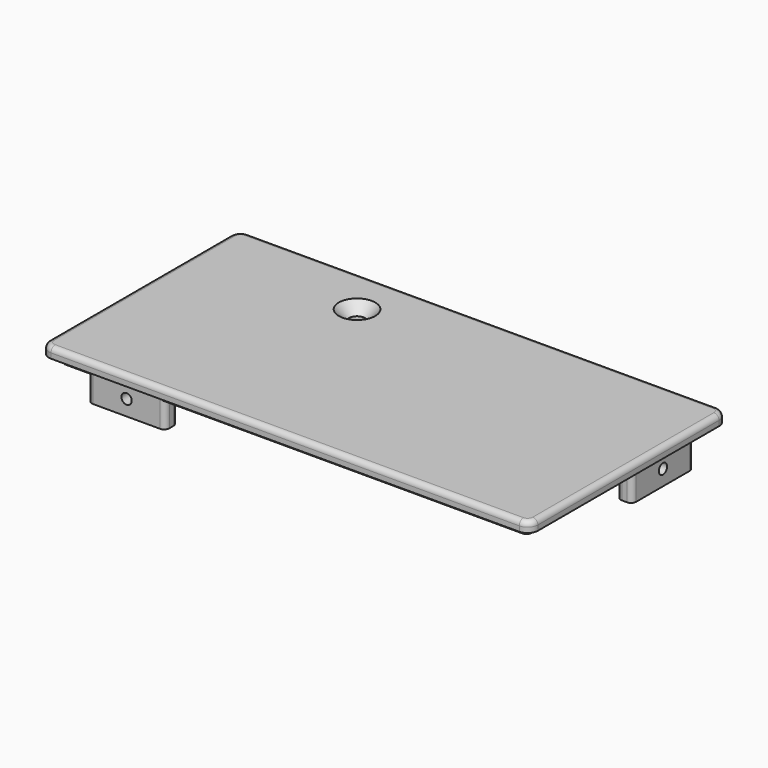
from build123d import *

# Parameters (mm, degrees)
SKETCH027_W     = 95
SKETCH027_H     = 48
PAD011_DEPTH    = 2
SKETCH028_R     = 2
PAD012_DEPTH    = 1.5
SKETCH032_W     = 22.9
SKETCH032_H     = 4.9
PAD013_DEPTH    = 1.2
SKETCH033_W     = 22.9
SKETCH033_H     = 4.3
PAD014_DEPTH    = 0.4
SKETCH034_W     = 15
SKETCH034_H     = 3
SKETCH034_W_2   = 3
SKETCH034_H_2   = 15
PAD015_DEPTH    = 5
SKETCH035_R     = 1
POCKET015_DEPTH = 5
SKETCH036_R     = 1
POCKET016_DEPTH = 5
SKETCH037_R     = 1.55
POCKET017_DEPTH = 7
FILLET_R        = 2
FILLET001_R     = 1
CHAMFER_SIZE    = 2
FILLET002_R     = 1
SKETCH047_W     = 20
SKETCH047_H     = 1.15
SKETCH047_H_2   = 1.4
PAD020_DEPTH    = 2
SKETCH048_W     = 20
SKETCH048_H     = 2.6
SKETCH048_H_2   = 0.6
PAD021_DEPTH    = 2
FILLET012_R     = 0.5
CHAMFER005_SIZE = 0.5
CHAMFER006_SIZE = 0.5
SKETCH051_W     = 6
SKETCH051_H     = 1.15
POCKET022_DEPTH = 2
FILLET015_R     = 0.5


with BuildPart() as part:
    # Sketch027 → Pad011 (new body)
    with BuildSketch(Plane.XY):
        with Locations((47.5, -34)):
            Rectangle(SKETCH027_W, SKETCH027_H)
    extrude(amount=PAD011_DEPTH)

    # Sketch028 (on Face5 of Pad011) → Pad012 (join)
    with BuildSketch(Plane(origin=(0, 0, 0), x_dir=(1, 0, 0), z_dir=(0, 0, -1))):
        with Locations((30.5, 19.3)):
            Circle(SKETCH028_R)
        Polygon((2.1, 30.9), (5.1, 30.9), (5.1, 52.9), (92.9, 52.9), (92.9, 55.9), (2.1, 55.9), align=None)
        Polygon((89.9, 32.1), (92.9, 32.1), (92.9, 12.1), (77.9, 12.1), (77.9, 15.1), (89.9, 15.1), align=None)
    extrude(amount=PAD012_DEPTH)

    # Sketch032 (on Face4 of Pad012) → Pad013 (join)
    with BuildSketch(Plane(origin=(0, 0, 0), x_dir=(1, 0, 0), z_dir=(0, 0, -1))):
        with Locations((13.55, 14.55)):
            Rectangle(SKETCH032_W, SKETCH032_H)
    extrude(amount=PAD013_DEPTH)

    # Sketch033 (on Face4 of Pad013) → Pad014 (join)
    with BuildSketch(Plane(origin=(0, 0, 0), x_dir=(1, 0, 0), z_dir=(0, 0, -1))):
        with Locations((13.55, 19.15)):
            Rectangle(SKETCH033_W, SKETCH033_H)
    extrude(amount=PAD014_DEPTH)

    # Sketch034 (on Face26 of Pad014) → Pad015 (join)
    with BuildSketch(Plane(origin=(0, 0, -1.5), x_dir=(1, 0, 0), z_dir=(0, 0, -1))):
        with Locations((15, 54.4)):
            Rectangle(SKETCH034_W, SKETCH034_H)
        with Locations((91.4, 23)):
            Rectangle(SKETCH034_W_2, SKETCH034_H_2)
    extrude(amount=PAD015_DEPTH)

    # Sketch035 (on Face33 of Pad015) → Pocket015 (cut)
    with BuildSketch(Plane.YZ.offset(92.9)):
        with Locations((-23, -3.5)):
            Circle(SKETCH035_R)
    extrude(amount=-POCKET015_DEPTH, mode=Mode.SUBTRACT)

    # Sketch036 (on Face28 of Pocket015) → Pocket016 (cut)
    with BuildSketch(Plane.XZ.offset(55.9)):
        with Locations((15, -3.5)):
            Circle(SKETCH036_R)
    extrude(amount=-POCKET016_DEPTH, mode=Mode.SUBTRACT)

    # Sketch037 (on Face34 of Pocket016) → Pocket017 (cut)
    with BuildSketch(Plane(origin=(0, 0, -1.5), x_dir=(1, 0, 0), z_dir=(0, 0, -1))):
        with Locations((30.5, 19.3)):
            Circle(SKETCH037_R)
    extrude(amount=-POCKET017_DEPTH, mode=Mode.SUBTRACT)

    # Fillet
    fillet_edges = [part.edges().sort_by_distance(p)[0] for p in [
        (0, -58, 1),
        (0, -10, 1),
        (95, -58, 1),
        (95, -10, 1),
    ]]
    fillet(fillet_edges, radius=FILLET_R)

    # Fillet001
    fillet001_edges = [part.edges().sort_by_distance(p)[0] for p in [
        (47.5, -58, 2),
    ]]
    fillet(fillet001_edges, radius=FILLET001_R)

    # Chamfer
    chamfer_edges = [part.edges().sort_by_distance(p)[0] for p in [
        (28.95, -19.3, 2),
    ]]
    chamfer(chamfer_edges, length=CHAMFER_SIZE)

    # Fillet002
    fillet002_edges = [part.edges().sort_by_distance(p)[0] for p in [
        (2.1, -30.9, -0.75),
        (5.1, -30.9, -0.75),
        (2.1, -21.3, -0.2),
        (2.1, -17, -0.8),
        (2.1, -12.1, -0.6),
        (25, -12.1, -0.6),
        (25, -17, -0.8),
        (25, -21.3, -0.2),
        (92.9, -55.9, -0.75),
        (92.9, -52.9, -0.75),
        (92.9, -32.1, -0.75),
        (92.9, -12.1, -0.75),
        (77.9, -12.1, -0.75),
        (92.9, -15.5, -4),
        (89.9, -15.5, -4),
        (92.9, -30.5, -4),
        (89.9, -32.1, -0.75),
        (89.9, -30.5, -4),
        (77.9, -15.1, -0.75),
        (22.5, -55.9, -4),
        (7.5, -55.9, -4),
        (2.1, -55.9, -0.75),
        (7.5, -52.9, -4),
        (22.5, -52.9, -4),
    ]]
    fillet(fillet002_edges, radius=FILLET002_R)

    # Sketch047 (on Face61 of Fillet002) → Pad020 (join)
    with BuildSketch(Plane(origin=(0, 0, -0.4), x_dir=(1, 0, 0), z_dir=(0, 0, -1))):
        with Locations((13.1, 20.725)):
            Rectangle(SKETCH047_W, SKETCH047_H)
        with Locations((13.1, 17.7)):
            Rectangle(SKETCH047_W, SKETCH047_H_2)
    extrude(amount=PAD020_DEPTH)

    # Sketch048 (on Face60 of Pad020) → Pad021 (join)
    with BuildSketch(Plane(origin=(0, 0, -1.2), x_dir=(1, 0, 0), z_dir=(0, 0, -1))):
        with Locations((13.1, 13.4)):
            Rectangle(SKETCH048_W, SKETCH048_H)
        with Locations((13.1, 16.7)):
            Rectangle(SKETCH048_W, SKETCH048_H_2)
    extrude(amount=PAD021_DEPTH)

    # Fillet012
    fillet012_edges = [part.edges().sort_by_distance(p)[0] for p in [
        (3.1, -21.3, -1.4),
        (3.1, -20.15, -1.4),
        (3.1, -18.4, -1.4),
        (23.1, -21.3, -1.4),
        (23.1, -20.15, -1.4),
        (23.1, -18.4, -1.4),
        (23.1, -14.7, -2.2),
        (23.1, -16.4, -2.2),
        (3.1, -16.4, -2.2),
        (3.1, -14.7, -2.2),
        (23.1, -12.1, -2.2),
        (3.1, -12.1, -2.2),
    ]]
    fillet(fillet012_edges, radius=FILLET012_R)

    # Chamfer005
    chamfer005_edges = [part.edges().sort_by_distance(p)[0] for p in [
        (13.1, -16.4, -3.2),
    ]]
    chamfer(chamfer005_edges, length=CHAMFER005_SIZE)

    # Chamfer006
    chamfer006_edges = [part.edges().sort_by_distance(p)[0] for p in [
        (13.1, -14.7, -3.2),
        (13.1, -18.4, -2.4),
        (13.1, -20.15, -2.4),
    ]]
    chamfer(chamfer006_edges, length=CHAMFER006_SIZE)

    # Sketch051 (on Face70 of Chamfer006) → Pocket022 (cut)
    with BuildSketch(Plane(origin=(0, 0, -2.4), x_dir=(1, 0, 0), z_dir=(0, 0, -1))):
        with Locations((13.6, 20.725)):
            Rectangle(SKETCH051_W, SKETCH051_H)
    extrude(amount=-POCKET022_DEPTH, mode=Mode.SUBTRACT)

    # Fillet015
    fillet015_edges = [part.edges().sort_by_distance(p)[0] for p in [
        (10.6, -20.15, -1.15),
        (10.6, -21.3, -1.15),
        (16.6, -20.15, -1.15),
        (16.6, -21.3, -1.15),
    ]]
    fillet(fillet015_edges, radius=FILLET015_R)


solid = part.part
